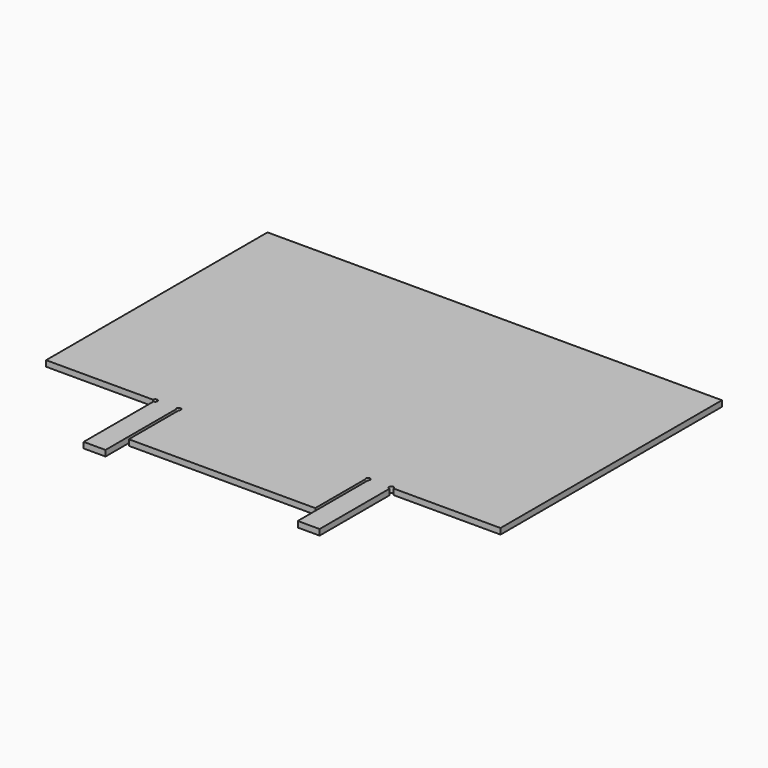
from build123d import *

# Parameters (mm, degrees)
F1_DEPTH = 2


with BuildPart() as f1:
    # F0 (on Top) → F1 (new body)
    with BuildSketch(Plane.XY):
        with BuildLine():
            Line((78, 117), (0, 117))
            Line((0, 117), (-78, 117))
            Line((-78, 117), (-78, 22))
            Line((-78, 22), (-41.25, 22))
            ThreePointArc((-41.25, 22), (-39.96967, 22.53033), (-40.5, 21.25))
            Line((-40.5, 21.25), (-40.5, -8.75))
            Line((-40.5, -8.75), (-33, -8.75))
            Line((-33, -8.75), (-33, 21.440983))
            ThreePointArc((-33, 21.440983), (-32.5, 22.75), (-32, 21.440983))
            Line((-32, 21.440983), (-32, 0))
            Line((-32, 0), (0, 0))
            Line((0, 0), (32, 0))
            Line((32, 0), (32, 21.440983))
            ThreePointArc((32, 21.440983), (32.5, 22.75), (33, 21.440983))
            Line((33, 21.440983), (33, -8.75))
            Line((33, -8.75), (40.5, -8.75))
            Line((40.5, -8.75), (40.5, 21.25))
            ThreePointArc((40.5, 21.25), (39.96967, 22.53033), (41.25, 22))
            Line((41.25, 22), (78, 22))
            Line((78, 22), (78, 117))
        make_face()
    extrude(amount=F1_DEPTH)


solid = f1.part
